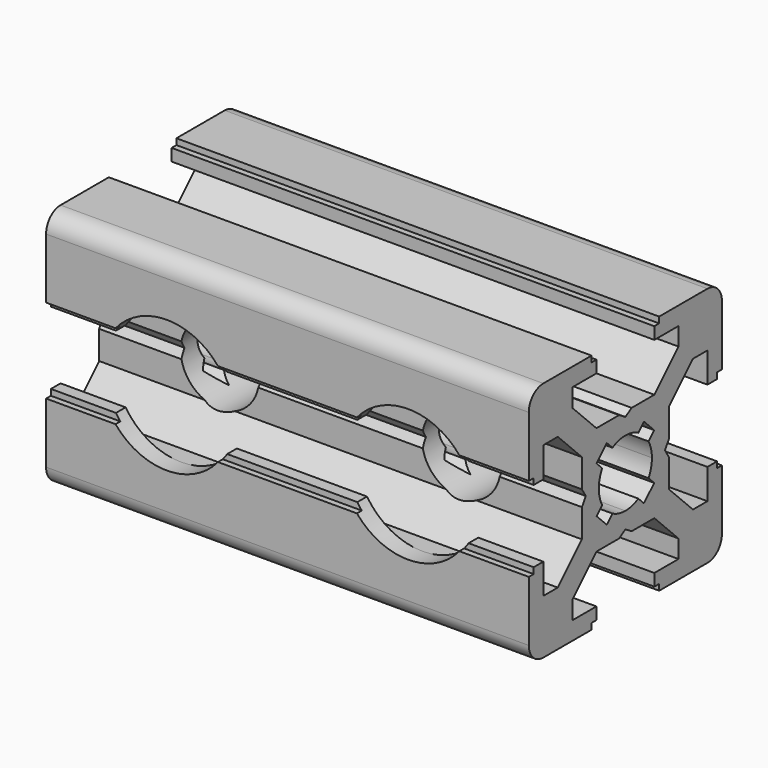
from build123d import *

# Parameters (mm, degrees)
PAD_DEPTH       = 40
SKETCH001_R     = 3.25
POCKET_DEPTH    = 21
SKETCH002_R     = 5.5
POCKET001_DEPTH = 2


with BuildPart() as part:
    # Sketch → Pad (new body)
    with BuildSketch(Plane.YZ):
        with BuildLine():
            Line((0, 4.1), (0.65, 4.5))
            Line((0.65, 4.5), (3, 4.5))
            Line((3, 4.5), (5.5, 7))
            Line((5.5, 7), (5.5, 8.5))
            Line((5.5, 8.5), (3, 8.5))
            Line((3, 8.5), (3, 9.5))
            Line((3, 9.5), (3.5, 9.5))
            Line((3.5, 9.5), (3.5, 10))
            Line((3.5, 10), (8.5, 10))
            ThreePointArc((10, 8.5), (9.56066, 9.56066), (8.5, 10))
            Line((10, 8.5), (10, 3.5))
            Line((10, 3.5), (9.5, 3.5))
            Line((9.5, 3.5), (9.5, 3))
            Line((9.5, 3), (8.5, 3))
            Line((8.5, 3), (8.5, 5.5))
            Line((8.5, 5.5), (7, 5.5))
            Line((7, 5.5), (4.5, 3))
            Line((4.5, 3), (4.5, 0.65))
            Line((4.5, 0.65), (4.1, 0))
            Line((4.5, -0.65), (4.1, 0))
            Line((4.5, -3), (4.5, -0.65))
            Line((7, -5.5), (4.5, -3))
            Line((8.5, -5.5), (7, -5.5))
            Line((8.5, -3), (8.5, -5.5))
            Line((9.5, -3), (8.5, -3))
            Line((9.5, -3.5), (9.5, -3))
            Line((10, -3.5), (9.5, -3.5))
            Line((10, -8.5), (10, -3.5))
            ThreePointArc((8.5, -10), (9.56066, -9.56066), (10, -8.5))
            Line((3.5, -10), (8.5, -10))
            Line((3.5, -9.5), (3.5, -10))
            Line((3, -9.5), (3.5, -9.5))
            Line((3, -8.5), (3, -9.5))
            Line((5.5, -8.5), (3, -8.5))
            Line((5.5, -7), (5.5, -8.5))
            Line((3, -4.5), (5.5, -7))
            Line((0.65, -4.5), (3, -4.5))
            Line((0, -4.1), (0.65, -4.5))
            Line((0, -4.1), (-0.65, -4.5))
            Line((-0.65, -4.5), (-3, -4.5))
            Line((-3, -4.5), (-5.5, -7))
            Line((-5.5, -7), (-5.5, -8.5))
            Line((-5.5, -8.5), (-3, -8.5))
            Line((-3, -8.5), (-3, -9.5))
            Line((-3, -9.5), (-3.5, -9.5))
            Line((-3.5, -9.5), (-3.5, -10))
            Line((-3.5, -10), (-8.5, -10))
            ThreePointArc((-10, -8.5), (-9.56066, -9.56066), (-8.5, -10))
            Line((-10, -8.5), (-10, -3.5))
            Line((-10, -3.5), (-9.5, -3.5))
            Line((-9.5, -3.5), (-9.5, -3))
            Line((-9.5, -3), (-8.5, -3))
            Line((-8.5, -3), (-8.5, -5.5))
            Line((-8.5, -5.5), (-7, -5.5))
            Line((-7, -5.5), (-4.5, -3))
            Line((-4.5, -3), (-4.5, -0.65))
            Line((-4.5, -0.65), (-4.1, 0))
            Line((-4.5, 0.65), (-4.1, 0))
            Line((-4.5, 3), (-4.5, 0.65))
            Line((-7, 5.5), (-4.5, 3))
            Line((-8.5, 5.5), (-7, 5.5))
            Line((-8.5, 3), (-8.5, 5.5))
            Line((-9.5, 3), (-8.5, 3))
            Line((-9.5, 3.5), (-9.5, 3))
            Line((-10, 3.5), (-9.5, 3.5))
            Line((-10, 8.5), (-10, 3.5))
            ThreePointArc((-8.5, 10), (-9.56066, 9.56066), (-10, 8.5))
            Line((-3.5, 10), (-8.5, 10))
            Line((-3.5, 9.5), (-3.5, 10))
            Line((-3, 9.5), (-3.5, 9.5))
            Line((-3, 8.5), (-3, 9.5))
            Line((-5.5, 8.5), (-3, 8.5))
            Line((-5.5, 7), (-5.5, 8.5))
            Line((-3, 4.5), (-5.5, 7))
            Line((-0.65, 4.5), (-3, 4.5))
            Line((0, 4.1), (-0.65, 4.5))
        make_face()
        with BuildLine():
            Line((1.340499, 2.401159), (1.923239, 2.983899))
            Line((1.923239, 2.983899), (2.983899, 1.923239))
            Line((2.983899, 1.923239), (2.401159, 1.340499))
            ThreePointArc((2.75, 0), (2.661361, 0.692573), (2.401159, 1.340499))
            ThreePointArc((2.401164, -1.34049), (2.661362, -0.692568), (2.75, 0))
            Line((2.983904, -1.92323), (2.401164, -1.34049))
            Line((1.923247, -2.983894), (2.983904, -1.92323))
            Line((1.340507, -2.401154), (1.923247, -2.983894))
            ThreePointArc((0, -2.75), (0.692577, -2.66136), (1.340507, -2.401154))
            ThreePointArc((-1.340507, -2.401154), (-0.692577, -2.66136), (0, -2.75))
            Line((-1.340507, -2.401154), (-1.923247, -2.983894))
            Line((-1.923247, -2.983894), (-2.983904, -1.92323))
            Line((-2.983904, -1.92323), (-2.401164, -1.34049))
            ThreePointArc((-2.75, 0), (-2.661362, -0.692568), (-2.401164, -1.34049))
            ThreePointArc((-2.401159, 1.340499), (-2.661361, 0.692572), (-2.75, 0))
            Line((-2.983899, 1.923239), (-2.401159, 1.340499))
            Line((-1.923239, 2.983899), (-2.983899, 1.923239))
            Line((-1.340499, 2.401159), (-1.923239, 2.983899))
            ThreePointArc((0, 2.75), (-0.692573, 2.661361), (-1.340499, 2.401159))
            ThreePointArc((1.340499, 2.401159), (0.692573, 2.661361), (0, 2.75))
        make_face(mode=Mode.SUBTRACT)
    extrude(amount=PAD_DEPTH)

    # Sketch001 → Pocket (cut)
    with BuildSketch(Plane.XZ.offset(10)):
        with Locations((10, 0)):
            Circle(SKETCH001_R)
        with Locations((30, 0)):
            Circle(SKETCH001_R)
    extrude(amount=-POCKET_DEPTH, mode=Mode.SUBTRACT)

    # Sketch002 → Pocket001 (cut)
    with BuildSketch(Plane.XZ.offset(10)):
        with Locations((10, 0)):
            Circle(SKETCH002_R)
        with Locations((30, 0)):
            Circle(SKETCH002_R)
    extrude(amount=-POCKET001_DEPTH, mode=Mode.SUBTRACT)


solid = part.part
